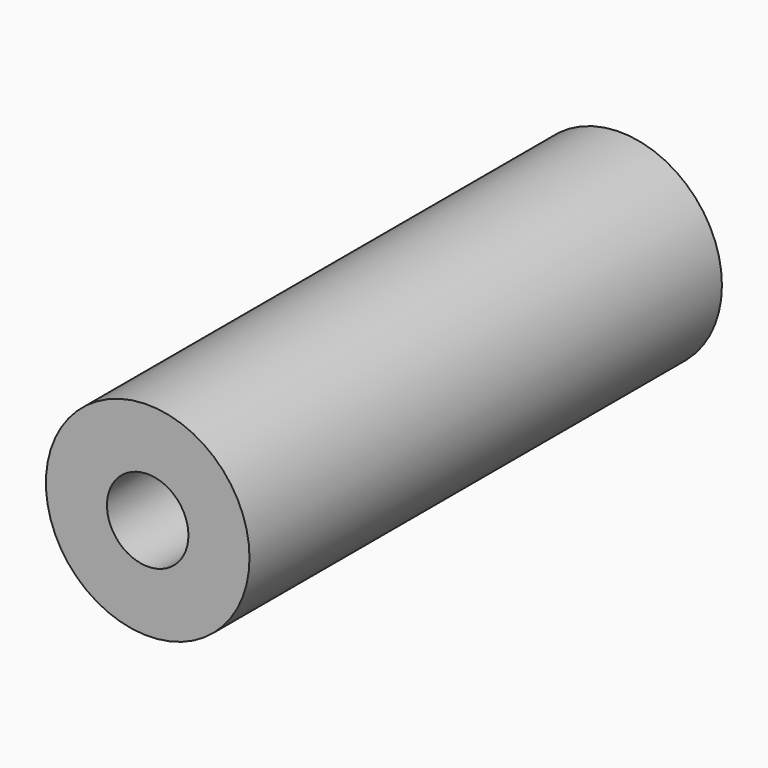
from build123d import *

# Parameters (mm, degrees)
F0_R     = 5
F0_R_2   = 2
F1_DEPTH = 29
F2_DEPTH = 4


with BuildPart() as f1:
    # F0 (on Front) → F1 (new body)
    with BuildSketch(Plane.XZ):
        with Locations((-21.545855, 24.76695)):
            Circle(F0_R)
        with Locations((-21.545855, 24.76695)):
            Circle(F0_R_2, mode=Mode.SUBTRACT)
    extrude(amount=F1_DEPTH)


with BuildPart() as f2:
    # F0 (on Front) → F2 (new body)
    with BuildSketch(Plane.XZ):
        with Locations((-21.545855, 24.76695)):
            Circle(F0_R_2)
    extrude(amount=-F2_DEPTH)


solid = f1.part
